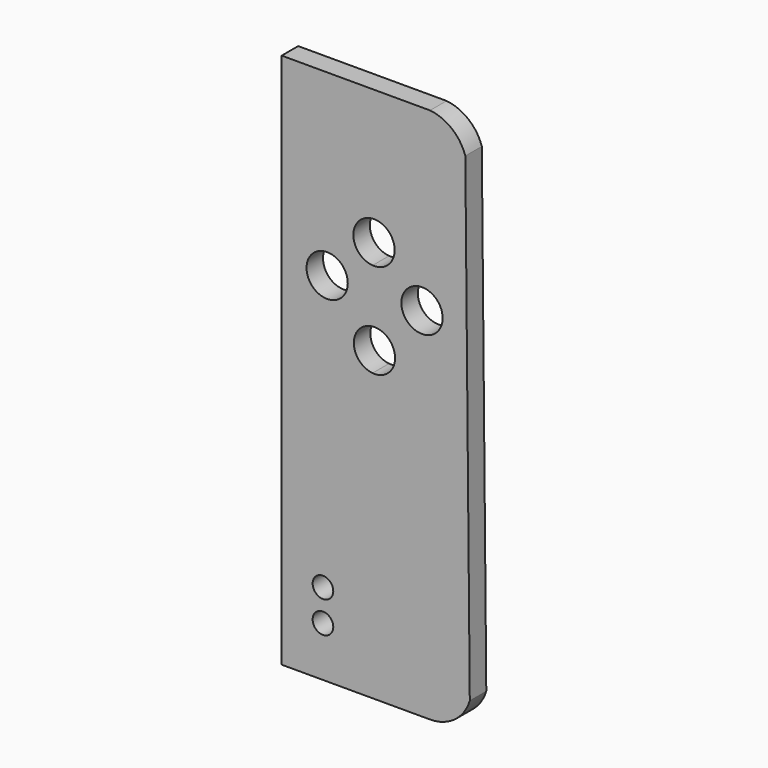
from build123d import *

# Parameters (mm, degrees)
F0_R     = 2.5
F0_R_2   = 5
F1_DEPTH = 5


with BuildPart() as f1:
    # F0 (on Front) → F1 (new body)
    with BuildSketch(Plane.XZ):
        with BuildLine():
            Line((135.28383, -68.32226), (135.28383, -198.32226))
            Line((135.28383, -198.32226), (157.312748, -198.32226))
            Line((157.312748, -198.32226), (157.312748, -128.921397))
            ThreePointArc((157.312748, -128.921397), (152.769318, -123.942286), (157.312748, -118.963175))
            Line((157.312748, -118.963175), (157.312748, -105.930082))
            ThreePointArc((157.312748, -105.930082), (152.661874, -100.942286), (157.312748, -95.95449))
            Line((157.312748, -95.95449), (157.312748, -68.32226))
            Line((157.312748, -68.32226), (135.28383, -68.32226))
        make_face()
        with Locations((145.284414, -186.214134)):
            Circle(F0_R, mode=Mode.SUBTRACT)
        with Locations((145.284414, -178.556204)):
            Circle(F0_R, mode=Mode.SUBTRACT)
        with Locations((146.29881, -111.676522)):
            Circle(F0_R_2, mode=Mode.SUBTRACT)
        with BuildLine():
            Line((157.312748, -128.921397), (157.312748, -198.32226))
            Line((157.312748, -198.32226), (171.252168, -198.32226))
            ThreePointArc((171.252168, -198.32226), (177.252168, -196.336497), (180.882853, -191.163356))
            Line((180.882853, -191.163356), (179.799825, -75.244784))
            ThreePointArc((179.799825, -75.244784), (176.556179, -70.511493), (171.252168, -68.32226))
            Line((171.252168, -68.32226), (157.312748, -68.32226))
            Line((157.312748, -68.32226), (157.312748, -95.95449))
            ThreePointArc((157.312748, -95.95449), (161.07174, -97.2854), (162.661874, -100.942286))
            ThreePointArc((162.661874, -100.942286), (161.07174, -104.599172), (157.312748, -105.930082))
            Line((157.312748, -105.930082), (157.312748, -118.963175))
            ThreePointArc((157.312748, -118.963175), (161.139567, -120.248856), (162.769318, -123.942286))
            ThreePointArc((162.769318, -123.942286), (161.139567, -127.635716), (157.312748, -128.921397))
        make_face()
        with Locations((169.29881, -111.676522)):
            Circle(F0_R_2, mode=Mode.SUBTRACT)
    extrude(amount=F1_DEPTH)


solid = f1.part
